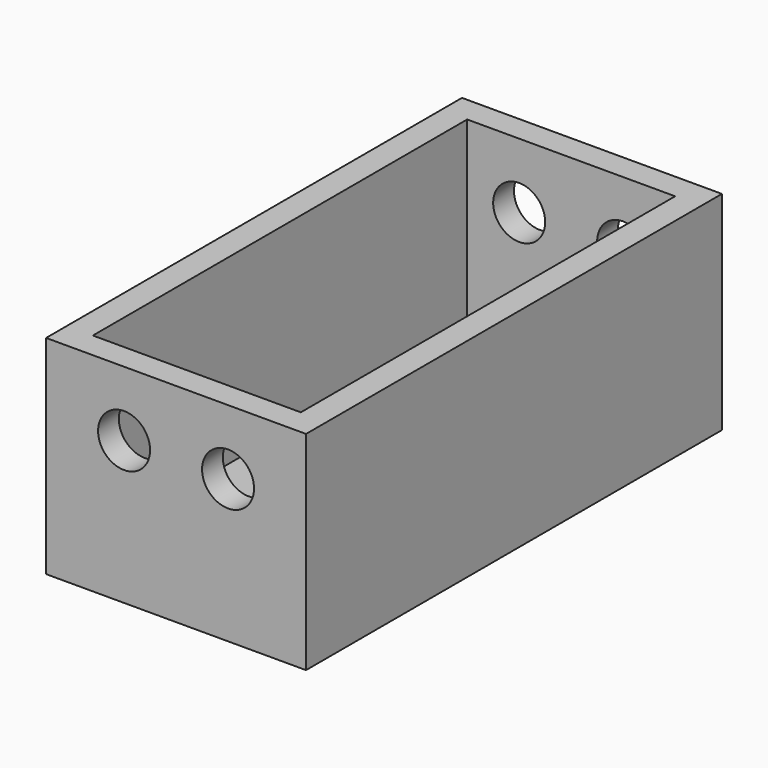
from build123d import *

# Parameters (mm, degrees)
SKETCH_W        = 50
SKETCH_H        = 100
PAD_DEPTH       = 40
SKETCH001_W     = 40
SKETCH001_H     = 90
POCKET_DEPTH    = 35
SKETCH002_W     = 40
SKETCH002_H     = 25
POCKET001_DEPTH = 5.001
SKETCH003_W     = 40
SKETCH003_H     = 25
POCKET002_DEPTH = 5.001
SKETCH004_R     = 5
POCKET003_DEPTH = 100.001


with BuildPart() as part:
    # Sketch → Pad (new body)
    with BuildSketch(Plane.XY):
        with Locations((25, 50)):
            Rectangle(SKETCH_W, SKETCH_H)
    extrude(amount=PAD_DEPTH)

    # Sketch001 (on Face6 of Pad) → Pocket (cut)
    with BuildSketch(Plane.XY.offset(40)):
        with Locations((25, 50)):
            Rectangle(SKETCH001_W, SKETCH001_H)
    extrude(amount=-POCKET_DEPTH, mode=Mode.SUBTRACT)

    # Sketch002 (on Face11 of Pocket) → Pocket001 (cut, through all)
    with BuildSketch(Plane.XY.offset(5)):
        with Locations((25, 82.5)):
            Rectangle(SKETCH002_W, SKETCH002_H)
    extrude(amount=-POCKET001_DEPTH, mode=Mode.SUBTRACT)

    # Sketch003 (on Face9 of Pocket001) → Pocket002 (cut, through all)
    with BuildSketch(Plane.XY.offset(5)):
        with Locations((25, 17.5)):
            Rectangle(SKETCH003_W, SKETCH003_H)
    extrude(amount=-POCKET002_DEPTH, mode=Mode.SUBTRACT)

    # Sketch004 (on Face1 of Pocket002) → Pocket003 (cut, through all)
    with BuildSketch(Plane.XZ):
        with Locations((15, 27.5)):
            Circle(SKETCH004_R)
        with Locations((35, 27.5)):
            Circle(SKETCH004_R)
    extrude(amount=-POCKET003_DEPTH, mode=Mode.SUBTRACT)


solid = part.part
